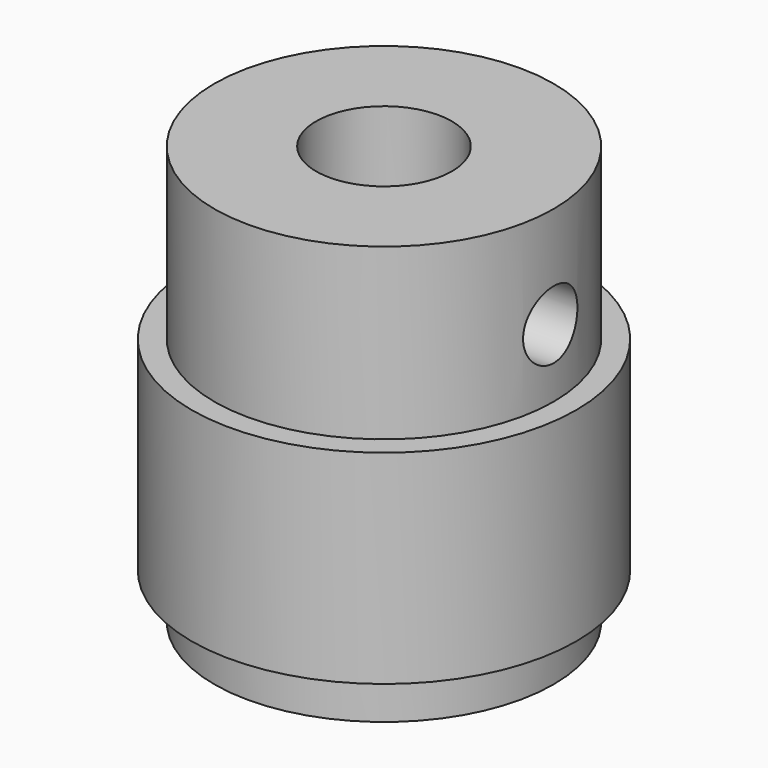
from build123d import *

# Parameters (mm, degrees)
F0_R     = 7.5
F0_R_2   = 3
F1_DEPTH = 18.5
F2_START = 2
F0_R_3   = 8.5
F2_DEPTH = 9
F3_R     = 1.5
F4_DEPTH = 8.501
F5_R     = 1.5
F6_DEPTH = 8.501


with BuildPart() as f1:
    # F0 (on Top) → F1 (new body)
    with BuildSketch(Plane.XY):
        Circle(F0_R)
        Circle(F0_R_2, mode=Mode.SUBTRACT)
    extrude(amount=F1_DEPTH)

    # F0 (on Top) → F2 (join)
    with BuildSketch(Plane.XY.offset(F2_START)):
        Circle(F0_R_3)
        Circle(F0_R, mode=Mode.SUBTRACT)
    extrude(amount=F2_DEPTH)

    # F3 (on Right) → F4 (cut, through all)
    with BuildSketch(Plane.YZ):
        with Locations((0, 14)):
            Circle(F3_R)
    extrude(amount=F4_DEPTH, mode=Mode.SUBTRACT)

    # F5 (on Front) → F6 (cut, through all)
    with BuildSketch(Plane.XZ):
        with Locations((0, 14)):
            Circle(F5_R)
    extrude(amount=-F6_DEPTH, mode=Mode.SUBTRACT)


solid = f1.part
